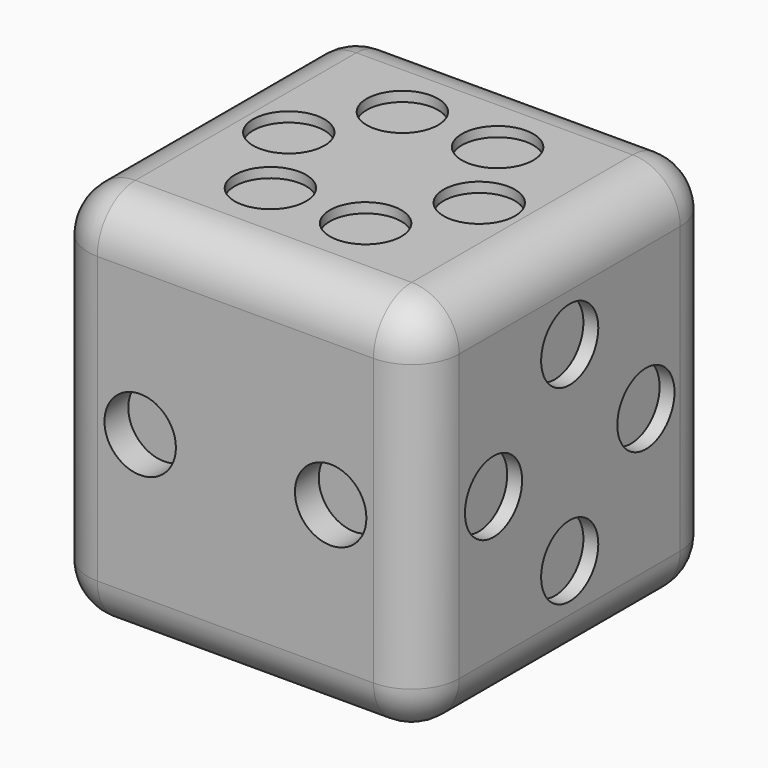
from build123d import *

# Parameters (mm, degrees)
F3_W          = 15.6
F3_H          = 15.6
F4_DEPTH      = 8
F4_DEPTH_BACK = 8
F5_R          = 2
F7_R          = 1.5
F8_DEPTH      = 2.5
F10_R         = 1.5
F11_DEPTH     = 0.4166666667
F13_R         = 1.5
F14_DEPTH     = 1.25
F16_R         = 1.5
F17_DEPTH     = 0.8333333333
F19_R         = 1.5
F20_DEPTH     = 0.625
F22_R         = 1.5
F23_DEPTH     = 0.5


with BuildPart() as f4:
    # F3 (on Top) → F4 (new body, two sides)
    with BuildSketch(Plane.XY) as f4_sk:
        Rectangle(F3_W, F3_H)
    extrude(amount=F4_DEPTH)
    extrude(f4_sk.sketch, amount=-F4_DEPTH_BACK)

    # F5
    f5_edges = [f4.edges().sort_by_distance(p)[0] for p in [
        (0, -7.8, 8),
        (7.8, 0, 8),
        (0, 7.8, 8),
        (-7.8, 0, 8),
        (-7.8, 7.8, 0),
        (7.8, 7.8, 0),
        (0, 7.8, -8),
        (-7.8, 0, -8),
        (7.8, 0, -8),
        (7.8, -7.8, 0),
        (0, -7.8, -8),
        (-7.8, -7.8, 0),
    ]]
    fillet(f5_edges, radius=F5_R)

    # F7 (on offset) → F8 (cut)
    with BuildSketch(Plane(origin=(0, 0, -8), x_dir=(1, 0, 0), z_dir=(0, 0, -1))):
        Circle(F7_R)
    extrude(amount=-F8_DEPTH, mode=Mode.SUBTRACT)

    # F10 (on offset) → F11 (cut)
    with BuildSketch(Plane.XY.offset(8)):
        with Locations((-2, 3.4641016151)):
            Circle(F10_R)
        with Locations((2, 3.4641016151)):
            Circle(F10_R)
        with Locations((4, 0)):
            Circle(F10_R)
        with Locations((2, -3.4641016151)):
            Circle(F10_R)
        with Locations((-2, -3.4641016151)):
            Circle(F10_R)
        with Locations((-4, 0)):
            Circle(F10_R)
    extrude(amount=-F11_DEPTH, mode=Mode.SUBTRACT)

    # F13 (on offset) → F14 (cut)
    with BuildSketch(Plane.XZ.offset(7.8)):
        with Locations((-4, 0)):
            Circle(F13_R)
        with Locations((4, 0)):
            Circle(F13_R)
    extrude(amount=-F14_DEPTH, mode=Mode.SUBTRACT)

    # F16 (on offset) → F17 (cut)
    with BuildSketch(Plane(origin=(-7.8, 0, 0), x_dir=(0, -1, 0), z_dir=(-1, 0, 0))):
        with Locations((-2, 3.4641016151)):
            Circle(F16_R)
        with Locations((-2, -3.4641016151)):
            Circle(F16_R)
        with Locations((4, 0)):
            Circle(F16_R)
    extrude(amount=-F17_DEPTH, mode=Mode.SUBTRACT)

    # F19 (on offset) → F20 (cut)
    with BuildSketch(Plane.YZ.offset(7.8)):
        with Locations((-4, 0)):
            Circle(F19_R)
        with Locations((0, 4)):
            Circle(F19_R)
        with Locations((4, 0)):
            Circle(F19_R)
        with Locations((0, -4)):
            Circle(F19_R)
    extrude(amount=-F20_DEPTH, mode=Mode.SUBTRACT)

    # F22 (on offset) → F23 (cut)
    with BuildSketch(Plane(origin=(0, 7.8, 0), x_dir=(-1, 0, 0), z_dir=(0, 1, 0))):
        with Locations((-3.2360679775, 2.3511410092)):
            Circle(F22_R)
        with Locations((1.2360679775, 3.8042260652)):
            Circle(F22_R)
        with Locations((4, 0)):
            Circle(F22_R)
        with Locations((1.2360679775, -3.8042260652)):
            Circle(F22_R)
        with Locations((-3.2360679775, -2.3511410092)):
            Circle(F22_R)
    extrude(amount=-F23_DEPTH, mode=Mode.SUBTRACT)


solid = f4.part
